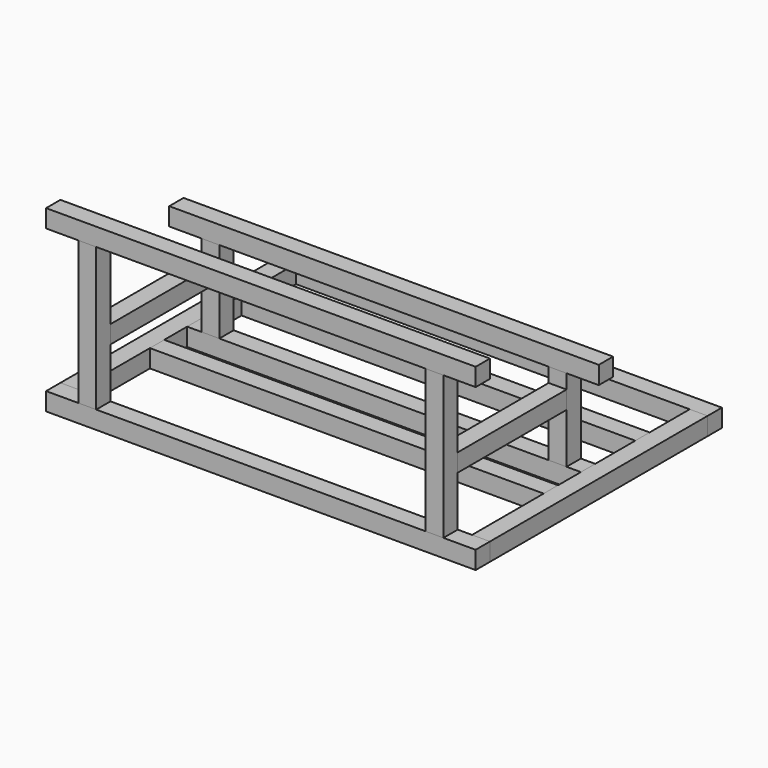
from build123d import *

# Parameters (mm, degrees)
F0_W     = 25
F0_H     = 25
F1_DEPTH = 600
F2_W     = 25
F2_H     = 25
F3_DEPTH = 380
F4_W     = 25
F4_H     = 25
F5_DEPTH = 115
F6_W     = 25
F6_H     = 25
F7_DEPTH = 200
F8_W     = 25
F8_H     = 25
F9_DEPTH = 190


with BuildPart() as f1:
    # F0 (on Right) → F1 (new body)
    with BuildSketch(Plane.YZ):
        Rectangle(F0_W, F0_H)
    extrude(amount=F1_DEPTH)


with BuildPart() as f1b:
    # F0 (on Right) → F1, piece 2 (new body)
    with BuildSketch(Plane.YZ):
        with Locations((405, 0)):
            Rectangle(F0_W, F0_H)
    extrude(amount=F1_DEPTH)


with BuildPart() as f1c:
    # F0 (on Right) → F1, piece 3 (new body)
    with BuildSketch(Plane.YZ):
        with Locations((150, 0)):
            Rectangle(F0_W, F0_H)
    extrude(amount=F1_DEPTH)


with BuildPart() as f1d:
    # F0 (on Right) → F1, piece 4 (new body)
    with BuildSketch(Plane.YZ):
        with Locations((215, 0)):
            Rectangle(F0_W, F0_H)
    extrude(amount=F1_DEPTH)


with BuildPart() as f1e:
    # F0 (on Right) → F1, piece 5 (new body)
    with BuildSketch(Plane.YZ):
        with Locations((0, 225)):
            Rectangle(F0_W, F0_H)
    extrude(amount=F1_DEPTH)


with BuildPart() as f1f:
    # F0 (on Right) → F1, piece 6 (new body)
    with BuildSketch(Plane.YZ):
        with Locations((215, 140)):
            Rectangle(F0_W, F0_H)
    extrude(amount=F1_DEPTH)


with BuildPart() as f1g:
    # F0 (on Right) → F1, piece 7 (new body)
    with BuildSketch(Plane.YZ):
        with Locations((310, 0)):
            Rectangle(F0_W, F0_H)
    extrude(amount=F1_DEPTH)


with BuildPart() as f3:
    # F2 (on face) → F3 (new body, through all)
    with BuildSketch(Plane(origin=(0, 12.5, 0), x_dir=(-1, 0, 0), z_dir=(0, 1, 0))):
        with Locations((-12.5, 0)):
            Rectangle(F2_W, F2_H)
    extrude(amount=F3_DEPTH)


with BuildPart() as f3b:
    # F2 (on face) → F3, piece 2 (new body, through all)
    with BuildSketch(Plane(origin=(0, 12.5, 0), x_dir=(-1, 0, 0), z_dir=(0, 1, 0))):
        with Locations((-587.5, 0)):
            Rectangle(F2_W, F2_H)
    extrude(amount=F3_DEPTH)


with BuildPart() as f5:
    # F4 (on face) → F5 (new body, through all)
    with BuildSketch(Plane.XY.offset(12.5)):
        with Locations((542.5, 215)):
            Rectangle(F4_W, F4_H)
    extrude(amount=F5_DEPTH)


with BuildPart() as f5b:
    # F4 (on face) → F5, piece 2 (new body, through all)
    with BuildSketch(Plane.XY.offset(12.5)):
        with Locations((57.5, 215)):
            Rectangle(F4_W, F4_H)
    extrude(amount=F5_DEPTH)


with BuildPart() as f7:
    # F6 (on face) → F7 (new body, through all)
    with BuildSketch(Plane.XY.offset(12.5)):
        with Locations((542.5, 0)):
            Rectangle(F6_W, F6_H)
    extrude(amount=F7_DEPTH)


with BuildPart() as f7b:
    # F6 (on face) → F7, piece 2 (new body, through all)
    with BuildSketch(Plane.XY.offset(12.5)):
        with Locations((57.5, 0)):
            Rectangle(F6_W, F6_H)
    extrude(amount=F7_DEPTH)


with BuildPart() as f9:
    # F8 (on face) → F9 (new body, through all)
    with BuildSketch(Plane.XZ.offset(-202.5)):
        with Locations((57.5, 95)):
            Rectangle(F8_W, F8_H)
    extrude(amount=F9_DEPTH)


with BuildPart() as f9b:
    # F8 (on face) → F9, piece 2 (new body, through all)
    with BuildSketch(Plane.XZ.offset(-202.5)):
        with Locations((542.5, 95)):
            Rectangle(F8_W, F8_H)
    extrude(amount=F9_DEPTH)


solid = Compound([f1.part, f1b.part, f1c.part, f1d.part, f1e.part, f1f.part, f1g.part, f3.part, f3b.part, f5.part, f5b.part, f7.part, f7b.part, f9.part, f9b.part])
